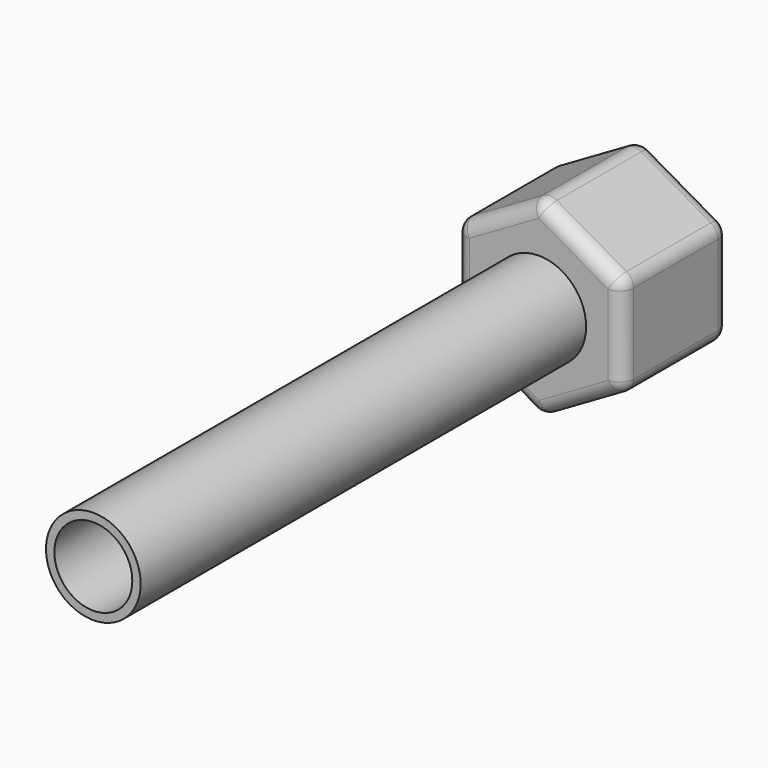
from build123d import *

# Parameters (mm, degrees)
F1_DEPTH = 12
F2_R     = 4.25
F2_R_2   = 3.5
F3_DEPTH = 50
F4_R     = 1.27


with BuildPart() as f1:
    # F0 (on Front) → F1 (new body)
    with BuildSketch(Plane.XZ):
        Polygon((0.015132, -8.660241), (7.507554, -4.317016), (7.492423, 4.343225), (-0.015132, 8.660241), (-7.507554, 4.317016), (-7.492423, -4.343225), align=None)
    extrude(amount=F1_DEPTH)

    # F2 (on face) → F3 (join)
    with BuildSketch(Plane.XZ.offset(12)):
        Circle(F2_R)
        Circle(F2_R_2, mode=Mode.SUBTRACT)
    extrude(amount=F3_DEPTH)

    # F4
    f4_edges = [f1.edges().sort_by_distance(p)[0] for p in [
        (7.492423, -6, 4.343225),
        (-0.015132, -6, 8.660241),
        (3.738645, 0, 6.501733),
        (3.738645, -12, 6.501733),
        (7.507554, -6, -4.317016),
        (7.499989, 0, 0.013105),
        (7.499989, -12, 0.013105),
        (-7.507554, -6, 4.317016),
        (-3.761343, 0, 6.488628),
        (-3.761343, -12, 6.488628),
        (-7.492423, -6, -4.343225),
        (-7.499989, 0, -0.013105),
        (-7.499989, -12, -0.013105),
        (0.015132, -6, -8.660241),
        (-3.738645, 0, -6.501733),
        (-3.738645, -12, -6.501733),
        (3.761343, 0, -6.488628),
        (3.761343, -12, -6.488628),
    ]]
    fillet(f4_edges, radius=F4_R)


solid = f1.part
